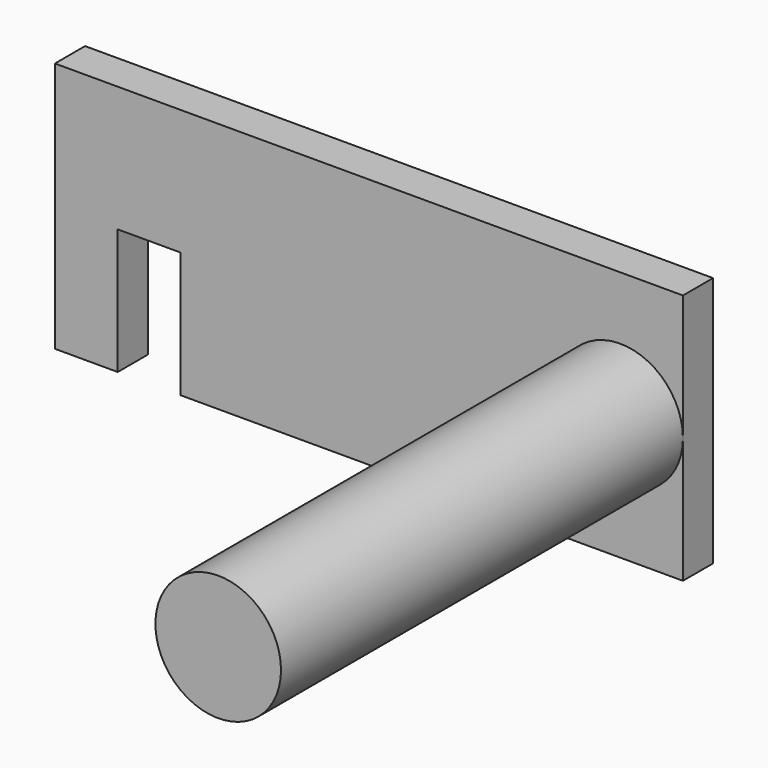
from build123d import *

# Parameters (mm, degrees)
F0_W     = 50
F0_H     = 20
F1_DEPTH = 3
F2_R     = 5
F3_DEPTH = 40
F4_W     = 5
F4_H     = 10.295372
F5_DEPTH = 3.001


with BuildPart() as f1:
    # F0 (on Front) → F1 (new body)
    with BuildSketch(Plane.XZ):
        Rectangle(F0_W, F0_H)
    extrude(amount=F1_DEPTH)

    # F2 (on face) → F3 (join)
    with BuildSketch(Plane.XZ.offset(3)):
        with Locations((20, 0)):
            Circle(F2_R)
    extrude(amount=F3_DEPTH)

    # F4 (on face) → F5 (cut, through all)
    with BuildSketch(Plane.XZ.offset(3)):
        with Locations((-17.5, -5.147686)):
            Rectangle(F4_W, F4_H)
    extrude(amount=-F5_DEPTH, mode=Mode.SUBTRACT)


solid = f1.part
